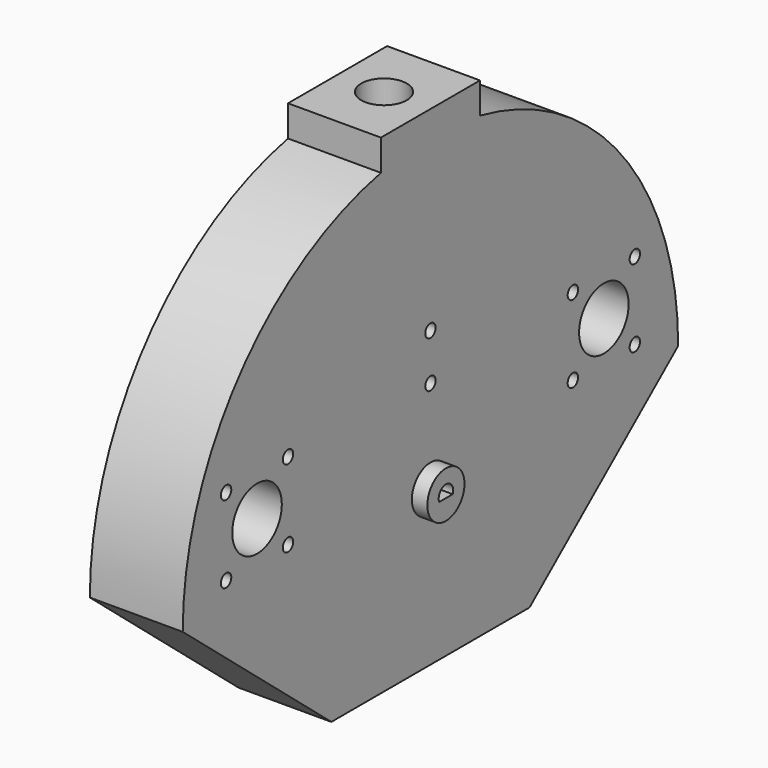
from build123d import *

# Parameters (mm, degrees)
PAD_DEPTH           = 30
SKETCH007_R         = 7.5
PAD006_DEPTH        = 50
SKETCH009_W         = 30
SKETCH009_H         = 40
PAD007_DEPTH        = 108
SKETCH008_R         = 7.349434
POCKET_DEPTH        = 114
HOLE001_D           = 4.2
HOLE001_DEPTH       = 62
HOLE001_CSINK_D     = 11.2
HOLE001_CSINK_ANGLE = 90
SKETCH012_R         = 10
POCKET001_DEPTH     = 42
SKETCH016_W         = 40
SKETCH016_H         = 40
POCKET004_DEPTH     = 10
SKETCH017_R         = 2.1
HOLE002_DEPTH       = 36
POCKET007_DEPTH     = 71


with BuildPart() as part:
    # Sketch → Pad (new body)
    with BuildSketch(Plane.YZ):
        with BuildLine():
            ThreePointArc((100, 0), (-1.8e-05, 100), (-100, -3.5e-05))
            Line((-100, -3.5e-05), (-40, -50))
            Line((-40, -50), (40, -50))
            Line((100, 0), (40, -50))
        make_face()
    extrude(amount=PAD_DEPTH)

    # Sketch007 → Pad006 (join)
    with BuildSketch(Plane.YZ.offset(-15)):
        Circle(SKETCH007_R)
    extrude(amount=PAD006_DEPTH)

    # Sketch009 → Pad007 (join)
    with BuildSketch(Plane.XY):
        with Locations((15, 0)):
            Rectangle(SKETCH009_W, SKETCH009_H)
    extrude(amount=PAD007_DEPTH)

    # Sketch008 → Pocket (cut)
    with BuildSketch(Plane.XY):
        with Locations((15, 0)):
            Circle(SKETCH008_R)
    extrude(amount=POCKET_DEPTH, mode=Mode.SUBTRACT)

    # Hole001
    with Locations(Plane(origin=(0, 0, 0), x_dir=(0, 1, 0), z_dir=(-1, 0, 0))):
        with Locations((0, -45), (0, -30)):
            CounterSinkHole(HOLE001_D / 2, HOLE001_CSINK_D / 2, depth=HOLE001_DEPTH, counter_sink_angle=HOLE001_CSINK_ANGLE)

    # Sketch012 → Pocket001 (cut)
    with BuildSketch(Plane.YZ):
        with Locations((-70, 20)):
            Circle(SKETCH012_R)
        with Locations((70, 20)):
            Circle(SKETCH012_R)
    extrude(amount=POCKET001_DEPTH, mode=Mode.SUBTRACT)

    # Sketch016 → Pocket004 (cut)
    with BuildSketch(Plane.YZ):
        with Locations((-70, 20)):
            Rectangle(SKETCH016_W, SKETCH016_H)
        with Locations((70, 20)):
            Rectangle(SKETCH016_W, SKETCH016_H)
    extrude(amount=POCKET004_DEPTH, mode=Mode.SUBTRACT)

    # Sketch017 → Hole002 (cut)
    with BuildSketch(Plane.YZ):
        with Locations((-82.5, 32.5)):
            Circle(SKETCH017_R)
        with Locations((-57.5, 32.5)):
            Circle(SKETCH017_R)
        with Locations((-82.5, 7.5)):
            Circle(SKETCH017_R)
        with Locations((-57.5, 7.5)):
            Circle(SKETCH017_R)
        with Locations((57.5, 32.5)):
            Circle(SKETCH017_R)
        with Locations((82.5, 32.5)):
            Circle(SKETCH017_R)
        with Locations((57.5, 7.5)):
            Circle(SKETCH017_R)
        with Locations((82.5, 7.5)):
            Circle(SKETCH017_R)
    extrude(amount=HOLE002_DEPTH, mode=Mode.SUBTRACT)

    # Sketch031 → Pocket007 (cut)
    with BuildSketch(Plane.YZ.offset(40)):
        with BuildLine():
            ThreePointArc((2.748601, -1.00041), (0, 2.924999), (-2.748601, -1.00041))
            Line((-2.748601, -1.00041), (2.748601, -1.00041))
        make_face()
    extrude(amount=-POCKET007_DEPTH, mode=Mode.SUBTRACT)


solid = part.part
